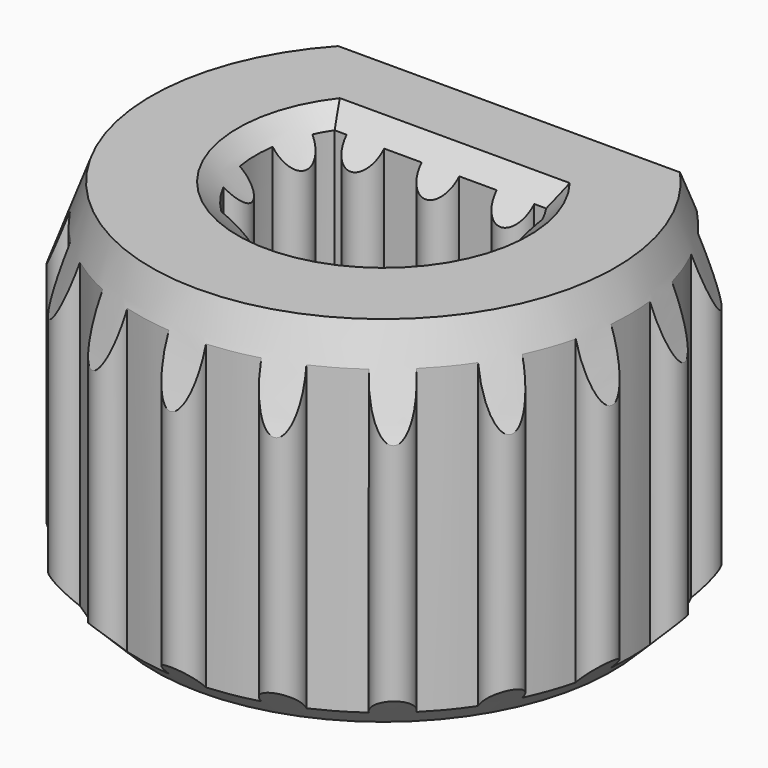
from build123d import *

# Parameters (mm, degrees)
PAD004_DEPTH     = 10
SKETCH007_W      = 2
SKETCH007_H      = 16
PAD005_DEPTH     = 1
PAD008_DEPTH     = 10
CHAMFER_SIZE     = 1
SKETCH008_R      = 10
PAD006_DEPTH     = 10
SKETCH009_W      = 2
SKETCH009_H      = 10
PAD007_DEPTH     = 1
SKETCH012_R      = 10
PAD009_DEPTH     = 10
CHAMFER001_SIZE  = 1
CHAMFER002_ANGLE = 70
CHAMFER002_SIZE  = 1
PAD_DEPTH        = 4.75
SKETCH002_R      = 0.5
PAD002_DEPTH     = 4.75
SKETCH003_R      = 0.5
PAD003_DEPTH     = 4.75
POCKET_DEPTH     = 2.2


with BuildPart() as body001:
    # Sketch006 (on DatumPlane) → Pad004 (new body)
    with BuildSketch(Plane.XY.offset(-1.55)):
        with BuildLine():
            ThreePointArc((-3.074085, 2.4), (0, -3.9), (3.074085, 2.4))
            Line((-3.074085, 2.4), (3.074085, 2.4))
        make_face()
    extrude(amount=-PAD004_DEPTH)

    # Sketch007 → Pad005 (join, symmetric)
    with BuildSketch(Plane.YZ):
        Rectangle(SKETCH007_W, SKETCH007_H)
    extrude(amount=PAD005_DEPTH, both=True)

    # Sketch011 (on DatumPlane) → Pad008 (join)
    with BuildSketch(Plane.XY.offset(3.75)):
        with BuildLine():
            ThreePointArc((-3.064311, 2.38), (0, -3.88), (3.064311, 2.38))
            Line((-3.064311, 2.38), (3.064311, 2.38))
        make_face()
    extrude(amount=PAD008_DEPTH)

    # Chamfer
    chamfer_edges = [body001.edges().sort_by_distance(p)[0] for p in [
        (0, -3.88, 3.75),
        (0, 2.38, 3.75),
        (0, -3.9, -1.55),
        (0, 2.4, -1.55),
    ]]
    chamfer(chamfer_edges, length=CHAMFER_SIZE)


with BuildPart() as body002:
    # Sketch008 (on DatumPlane) → Pad006 (new body)
    with BuildSketch(Plane.XY.offset(2.25)):
        Circle(SKETCH008_R)
        with BuildLine():
            ThreePointArc((-4.516636, 4.1), (0, -6.1), (4.516636, 4.1))
            Line((-4.516636, 4.1), (4.516636, 4.1))
        make_face(mode=Mode.SUBTRACT)
    extrude(amount=PAD006_DEPTH)

    # Sketch009 → Pad007 (join, symmetric)
    with BuildSketch(Plane.YZ):
        with Locations((7, 0)):
            Rectangle(SKETCH009_W, SKETCH009_H)
    extrude(amount=PAD007_DEPTH, both=True)

    # Sketch012 (on DatumPlane) → Pad009 (join)
    with BuildSketch(Plane.XY.offset(-3.75)):
        Circle(SKETCH012_R)
        with BuildLine():
            ThreePointArc((-4.516636, 4.1), (0, -6.1), (4.516636, 4.1))
            Line((-4.516636, 4.1), (4.516636, 4.1))
        make_face(mode=Mode.SUBTRACT)
    extrude(amount=-PAD009_DEPTH)

    # Chamfer001
    chamfer001_edges = [body002.edges().sort_by_distance(p)[0] for p in [
        (0, 4.1, -3.75),
        (0, -6.1, -3.75),
    ]]
    chamfer(chamfer001_edges, length=CHAMFER001_SIZE)

    # Chamfer002
    chamfer002_edges = [body002.edges().sort_by_distance(p)[0] for p in [
        (0, -6.1, 2.25),
        (0, 4.1, 2.25),
    ]]
    chamfer002_side = body002.faces().sort_by_distance((-9.717157, 0, 2.25))[0]
    chamfer(chamfer002_edges, length=CHAMFER002_SIZE, angle=CHAMFER002_ANGLE, reference=chamfer002_side)


with BuildPart() as plastic_tek2_knob_interface:
    # Sketch → Pad (new body, symmetric)
    with BuildSketch(Plane.XY):
        with BuildLine():
            Line((-4.711688, 4.55), (4.711688, 4.55))
            ThreePointArc((-4.711688, 4.55), (0, -6.55), (4.711688, 4.55))
        make_face()
        with BuildLine():
            Line((-2.819574, 1.9), (2.819574, 1.9))
            ThreePointArc((-2.819574, 1.9), (0, -3.4), (2.819574, 1.9))
        make_face(mode=Mode.SUBTRACT)
    extrude(amount=PAD_DEPTH, both=True)

    # Sketch002 → Pad002 (join, symmetric)
    with BuildSketch(Plane.XY):
        with Locations((-5.656854, 3.4)):
            Circle(SKETCH002_R)
        with Locations((-6.482238, 1.241203)):
            Circle(SKETCH002_R)
        with Locations((-6.512721, -1.0698)):
            Circle(SKETCH002_R)
        with Locations((-4.271962, -5.030938)):
            Circle(SKETCH002_R)
        with Locations((-2.275501, -6.195329)):
            Circle(SKETCH002_R)
        with Locations((0, -6.6)):
            Circle(SKETCH002_R)
        with Locations((5.656854, 3.4)):
            Circle(SKETCH002_R)
        with Locations((-5.744563, -3.249615)):
            Circle(SKETCH002_R)
        with Locations((6.482238, 1.241203)):
            Circle(SKETCH002_R)
        with Locations((4.271962, -5.030938)):
            Circle(SKETCH002_R)
        with Locations((5.744563, -3.249615)):
            Circle(SKETCH002_R)
        with Locations((2.275501, -6.195329)):
            Circle(SKETCH002_R)
        with Locations((6.512721, -1.0698)):
            Circle(SKETCH002_R)
        with Locations((-3.45, 4.6)):
            Circle(SKETCH002_R)
        with Locations((-1.15, 4.6)):
            Circle(SKETCH002_R)
        with Locations((1.15, 4.6)):
            Circle(SKETCH002_R)
        with Locations((3.45, 4.6)):
            Circle(SKETCH002_R)
    extrude(amount=PAD002_DEPTH, both=True)

    # Sketch003 → Pad003 (join, symmetric)
    with BuildSketch(Plane.XY):
        with Locations((-2, 1.9)):
            Circle(SKETCH003_R)
        with Locations((0, 1.9)):
            Circle(SKETCH003_R)
        with Locations((2, 1.9)):
            Circle(SKETCH003_R)
        with Locations((-3.249615, 1)):
            Circle(SKETCH003_R)
        with Locations((-3.222471, -1.084288)):
            Circle(SKETCH003_R)
        with Locations((-1.984115, -2.76103)):
            Circle(SKETCH003_R)
        with Locations((0, -3.4)):
            Circle(SKETCH003_R)
        with Locations((1.984115, -2.76103)):
            Circle(SKETCH003_R)
        with Locations((3.222471, -1.084288)):
            Circle(SKETCH003_R)
        with Locations((3.249615, 1)):
            Circle(SKETCH003_R)
    extrude(amount=PAD003_DEPTH, both=True)

    # Sketch010 (on DatumPlane) → Pocket (cut)
    with BuildSketch(Plane.XY.offset(-4.75)):
        with BuildLine():
            ThreePointArc((-4, 3), (0, -5), (4, 3))
            Line((4, 5.5), (4, 3))
            Line((-4, 5.5), (4, 5.5))
            Line((-4, 3), (-4, 5.5))
        make_face()
    extrude(amount=POCKET_DEPTH, mode=Mode.SUBTRACT)

    # Boolean: cut Body001
    add(body001.part, mode=Mode.SUBTRACT)

    # Boolean001: cut Body002
    add(body002.part, mode=Mode.SUBTRACT)


solid = plastic_tek2_knob_interface.part
